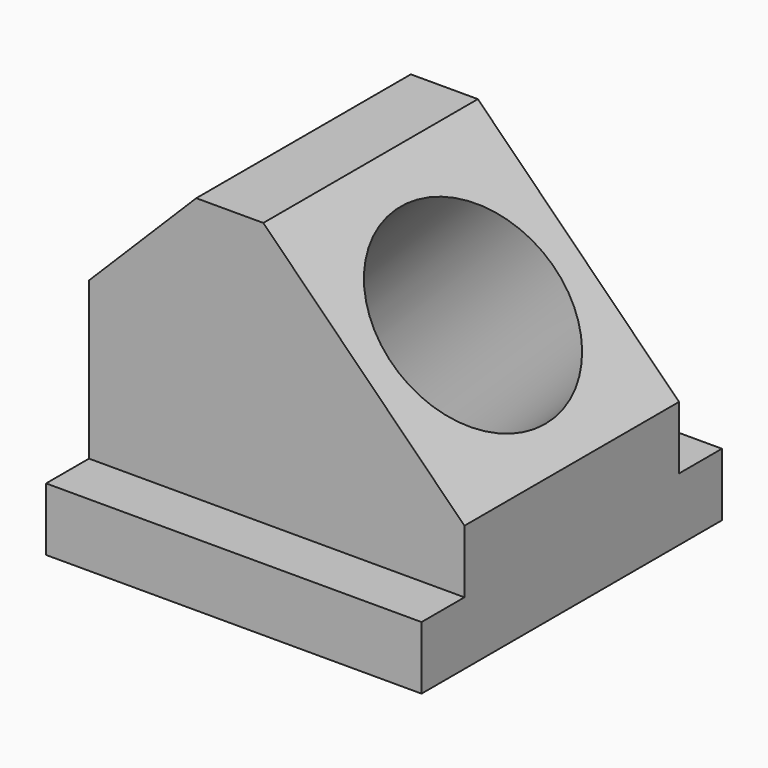
from build123d import *

# Parameters (mm, degrees)
F1_DEPTH = 35.56
F2_W     = 10.16
F2_H     = 50.038
F3_DEPTH = 71.121
F4_R     = 19.356185
F5_DEPTH = 67.173316


with BuildPart() as f1:
    # F0 (on Front) → F1 (new body, symmetric)
    with BuildSketch(Plane.XZ):
        Polygon((-35.56, 41.656), (-35.56, 0), (35.56, 0), (35.56, 23.876), (-2.54, 61.976), (-15.24, 61.976), align=None)
    extrude(amount=F1_DEPTH, both=True)

    # F2 (on face) → F3 (cut, through all)
    with BuildSketch(Plane.YZ.offset(35.56)):
        with Locations((-30.48, 36.957)):
            Rectangle(F2_W, F2_H)
        with Locations((30.48, 36.957)):
            Rectangle(F2_W, F2_H)
    extrude(amount=-F3_DEPTH, mode=Mode.SUBTRACT)

    # F4 (on face) → F5 (cut, through all)
    with BuildSketch(Plane(origin=(29.718, 0, 29.718), x_dir=(0.707107, 0, -0.707107), z_dir=(0.707107, 0, 0.707107))):
        with Locations((-18.183183, 0)):
            Circle(F4_R)
    extrude(amount=-F5_DEPTH, mode=Mode.SUBTRACT)


solid = f1.part
